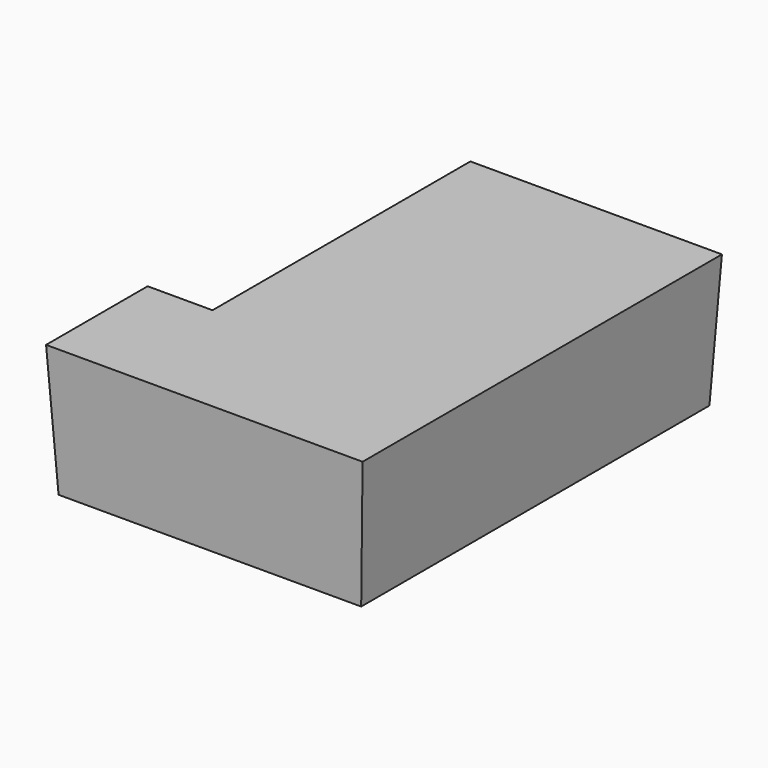
from build123d import *

# Parameters (mm, degrees)
F1_DEPTH = 25.4
F1_TAPER = -3


with BuildPart() as f1:
    # F0 (on Top) → F1 (new body)
    with BuildSketch(Plane.XY):
        Polygon((57.9708740115, 61.7392212152), (12.4370064586, 61.7392212152), (12.4370064586, 0), (0, 0), (0, -21.6508340091), (12.4370064586, -21.6508340091), (57.9708740115, -21.6508340091), align=None)
    extrude(amount=F1_DEPTH, taper=F1_TAPER)


solid = f1.part
